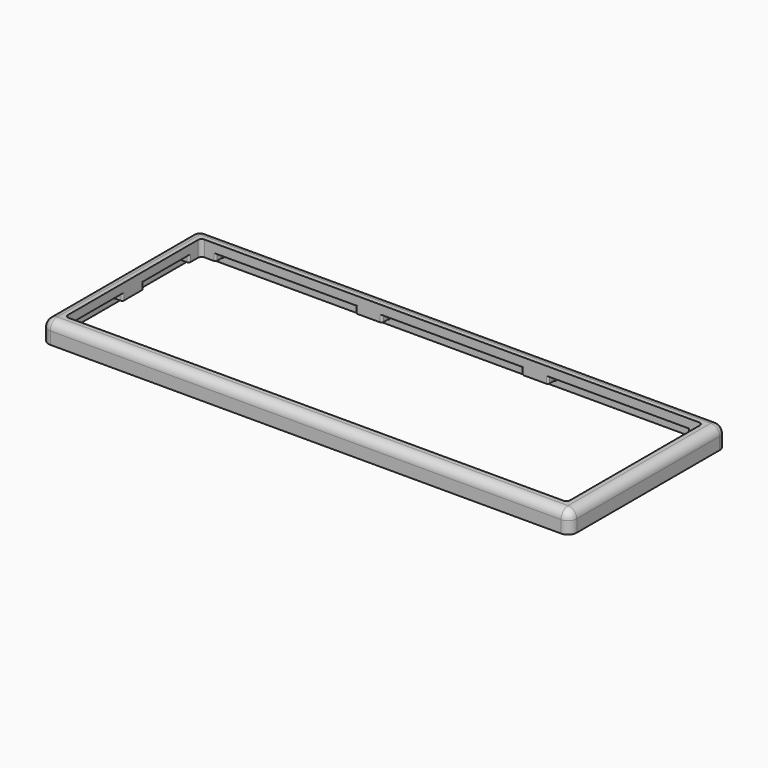
from build123d import *

# Parameters (mm, degrees)
SKETCH_W        = 302
SKETCH_H        = 112
SKETCH_W_2      = 287
SKETCH_H_2      = 97
PAD_DEPTH       = 12
FILLET_R        = 5
FILLET001_R     = 5
FILLET002_R     = 5
FILLET003_R     = 5
FILLET004_R     = 5
SKETCH001_W     = 297
SKETCH001_H     = 107
POCKET_DEPTH    = 3
FILLET005_R     = 3
FILLET006_R     = 2
FILLET007_R     = 3
FILLET008_R     = 2
FILLET009_R     = 2
FILLET010_R     = 3
FILLET011_R     = 2
FILLET012_R     = 3
SKETCH002_W     = 80
SKETCH002_H     = 5
POCKET001_DEPTH = 4
SKETCH003_W     = 5
SKETCH003_H     = 32.5
POCKET002_DEPTH = 4
FILLET013_R     = 1
FILLET014_R     = 1
FILLET015_R     = 1
FILLET016_R     = 1
FILLET017_R     = 1
FILLET018_R     = 1
FILLET019_R     = 1
FILLET020_R     = 1
FILLET021_R     = 1
FILLET022_R     = 1
FILLET023_R     = 1
FILLET024_R     = 1
FILLET025_R     = 1
FILLET026_R     = 1
FILLET027_R     = 1
FILLET028_R     = 1
FILLET029_R     = 1
FILLET030_R     = 1
FILLET031_R     = 1
FILLET032_R     = 1
FILLET033_R     = 1
FILLET034_R     = 1
FILLET035_R     = 1
FILLET036_R     = 1
FILLET037_R     = 1
FILLET038_R     = 1
FILLET039_R     = 1
FILLET040_R     = 1
FILLET041_R     = 1
FILLET042_R     = 1
FILLET043_R     = 1
FILLET044_R     = 1
FILLET045_R     = 1
FILLET046_R     = 1
FILLET047_R     = 1
FILLET048_R     = 1
FILLET049_R     = 1
FILLET050_R     = 1
FILLET051_R     = 1
FILLET052_R     = 1


with BuildPart() as part:
    # Sketch → Pad (new body)
    with BuildSketch(Plane.XY):
        Rectangle(SKETCH_W, SKETCH_H)
        Rectangle(SKETCH_W_2, SKETCH_H_2, mode=Mode.SUBTRACT)
    extrude(amount=PAD_DEPTH)

    # Fillet
    fillet_edges = [part.edges().sort_by_distance(p)[0] for p in [
        (151, -56, 6),
    ]]
    fillet(fillet_edges, radius=FILLET_R)

    # Fillet001
    fillet001_edges = [part.edges().sort_by_distance(p)[0] for p in [
        (151, 56, 6),
    ]]
    fillet(fillet001_edges, radius=FILLET001_R)

    # Fillet002
    fillet002_edges = [part.edges().sort_by_distance(p)[0] for p in [
        (-151, 56, 6),
    ]]
    fillet(fillet002_edges, radius=FILLET002_R)

    # Fillet003
    fillet003_edges = [part.edges().sort_by_distance(p)[0] for p in [
        (-151, -56, 6),
    ]]
    fillet(fillet003_edges, radius=FILLET003_R)

    # Fillet004
    fillet004_edges = [part.edges().sort_by_distance(p)[0] for p in [
        (149.535534, -54.535534, 12),
    ]]
    fillet(fillet004_edges, radius=FILLET004_R)

    # Sketch001 (on Face4 of Fillet004) → Pocket (cut)
    with BuildSketch(Plane(origin=(0, 0, 0), x_dir=(1, 0, 0), z_dir=(0, 0, -1))):
        Rectangle(SKETCH001_W, SKETCH001_H)
    extrude(amount=-POCKET_DEPTH, mode=Mode.SUBTRACT)

    # Fillet005
    fillet005_edges = [part.edges().sort_by_distance(p)[0] for p in [
        (148.5, -53.5, 1.5),
    ]]
    fillet(fillet005_edges, radius=FILLET005_R)

    # Fillet006
    fillet006_edges = [part.edges().sort_by_distance(p)[0] for p in [
        (143.5, -48.5, 7.5),
    ]]
    fillet(fillet006_edges, radius=FILLET006_R)

    # Fillet007
    fillet007_edges = [part.edges().sort_by_distance(p)[0] for p in [
        (148.5, 53.5, 1.5),
    ]]
    fillet(fillet007_edges, radius=FILLET007_R)

    # Fillet008
    fillet008_edges = [part.edges().sort_by_distance(p)[0] for p in [
        (143.5, 48.5, 7.5),
    ]]
    fillet(fillet008_edges, radius=FILLET008_R)

    # Fillet009
    fillet009_edges = [part.edges().sort_by_distance(p)[0] for p in [
        (-143.5, 48.5, 7.5),
    ]]
    fillet(fillet009_edges, radius=FILLET009_R)

    # Fillet010
    fillet010_edges = [part.edges().sort_by_distance(p)[0] for p in [
        (-148.5, 53.5, 1.5),
    ]]
    fillet(fillet010_edges, radius=FILLET010_R)

    # Fillet011
    fillet011_edges = [part.edges().sort_by_distance(p)[0] for p in [
        (-143.5, -48.5, 7.5),
    ]]
    fillet(fillet011_edges, radius=FILLET011_R)

    # Fillet012
    fillet012_edges = [part.edges().sort_by_distance(p)[0] for p in [
        (-148.5, -53.5, 1.5),
    ]]
    fillet(fillet012_edges, radius=FILLET012_R)

    # Sketch002 (on Face1 of Fillet012) → Pocket001 (cut)
    with BuildSketch(Plane(origin=(0, 0, 3), x_dir=(1, 0, 0), z_dir=(0, 0, -1))):
        with Locations((-95, 51)):
            Rectangle(SKETCH002_W, SKETCH002_H)
        with Locations((0, 51)):
            Rectangle(SKETCH002_W, SKETCH002_H)
        with Locations((95, 51)):
            Rectangle(SKETCH002_W, SKETCH002_H)
        with Locations((95, -51)):
            Rectangle(SKETCH002_W, SKETCH002_H)
        with Locations((0, -51)):
            Rectangle(SKETCH002_W, SKETCH002_H)
        with Locations((-95, -51)):
            Rectangle(SKETCH002_W, SKETCH002_H)
    extrude(amount=-POCKET001_DEPTH, mode=Mode.SUBTRACT)

    # Sketch003 (on Face1 of Pocket001) → Pocket002 (cut)
    with BuildSketch(Plane(origin=(0, 0, 3), x_dir=(1, 0, 0), z_dir=(0, 0, -1))):
        with Locations((-146, 23.75)):
            Rectangle(SKETCH003_W, SKETCH003_H)
        with Locations((-146, -23.75)):
            Rectangle(SKETCH003_W, SKETCH003_H)
        with Locations((146, 23.75)):
            Rectangle(SKETCH003_W, SKETCH003_H)
        with Locations((146, -23.75)):
            Rectangle(SKETCH003_W, SKETCH003_H)
    extrude(amount=-POCKET002_DEPTH, mode=Mode.SUBTRACT)

    # Fillet013
    fillet013_edges = [part.edges().sort_by_distance(p)[0] for p in [
        (-143.5, -40, 5),
    ]]
    fillet(fillet013_edges, radius=FILLET013_R)

    # Fillet014
    fillet014_edges = [part.edges().sort_by_distance(p)[0] for p in [
        (-135, -48.5, 5),
    ]]
    fillet(fillet014_edges, radius=FILLET014_R)

    # Fillet015
    fillet015_edges = [part.edges().sort_by_distance(p)[0] for p in [
        (-135, -53.5, 5),
    ]]
    fillet(fillet015_edges, radius=FILLET015_R)

    # Fillet016
    fillet016_edges = [part.edges().sort_by_distance(p)[0] for p in [
        (-148.5, -40, 5),
    ]]
    fillet(fillet016_edges, radius=FILLET016_R)

    # Fillet017
    fillet017_edges = [part.edges().sort_by_distance(p)[0] for p in [
        (-148.5, 7.5, 5),
    ]]
    fillet(fillet017_edges, radius=FILLET017_R)

    # Fillet018
    fillet018_edges = [part.edges().sort_by_distance(p)[0] for p in [
        (-143.5, 7.5, 5),
    ]]
    fillet(fillet018_edges, radius=FILLET018_R)

    # Fillet019
    fillet019_edges = [part.edges().sort_by_distance(p)[0] for p in [
        (-148.5, -7.5, 5),
    ]]
    fillet(fillet019_edges, radius=FILLET019_R)

    # Fillet020
    fillet020_edges = [part.edges().sort_by_distance(p)[0] for p in [
        (-143.5, -7.5, 5),
    ]]
    fillet(fillet020_edges, radius=FILLET020_R)

    # Fillet021
    fillet021_edges = [part.edges().sort_by_distance(p)[0] for p in [
        (-148.5, 40, 5),
    ]]
    fillet(fillet021_edges, radius=FILLET021_R)

    # Fillet022
    fillet022_edges = [part.edges().sort_by_distance(p)[0] for p in [
        (-143.5, 40, 5),
    ]]
    fillet(fillet022_edges, radius=FILLET022_R)

    # Fillet023
    fillet023_edges = [part.edges().sort_by_distance(p)[0] for p in [
        (-135, 53.5, 5),
    ]]
    fillet(fillet023_edges, radius=FILLET023_R)

    # Fillet024
    fillet024_edges = [part.edges().sort_by_distance(p)[0] for p in [
        (-135, 48.5, 5),
    ]]
    fillet(fillet024_edges, radius=FILLET024_R)

    # Fillet025
    fillet025_edges = [part.edges().sort_by_distance(p)[0] for p in [
        (-40, 48.5, 5),
    ]]
    fillet(fillet025_edges, radius=FILLET025_R)

    # Fillet026
    fillet026_edges = [part.edges().sort_by_distance(p)[0] for p in [
        (-40, 53.5, 5),
    ]]
    fillet(fillet026_edges, radius=FILLET026_R)

    # Fillet027
    fillet027_edges = [part.edges().sort_by_distance(p)[0] for p in [
        (-55, 48.5, 5),
    ]]
    fillet(fillet027_edges, radius=FILLET027_R)

    # Fillet028
    fillet028_edges = [part.edges().sort_by_distance(p)[0] for p in [
        (-55, 53.5, 5),
    ]]
    fillet(fillet028_edges, radius=FILLET028_R)

    # Fillet029
    fillet029_edges = [part.edges().sort_by_distance(p)[0] for p in [
        (40, 53.5, 5),
    ]]
    fillet(fillet029_edges, radius=FILLET029_R)

    # Fillet030
    fillet030_edges = [part.edges().sort_by_distance(p)[0] for p in [
        (40, 48.5, 5),
    ]]
    fillet(fillet030_edges, radius=FILLET030_R)

    # Fillet031
    fillet031_edges = [part.edges().sort_by_distance(p)[0] for p in [
        (55, 48.5, 5),
    ]]
    fillet(fillet031_edges, radius=FILLET031_R)

    # Fillet032
    fillet032_edges = [part.edges().sort_by_distance(p)[0] for p in [
        (55, 53.5, 5),
    ]]
    fillet(fillet032_edges, radius=FILLET032_R)

    # Fillet033
    fillet033_edges = [part.edges().sort_by_distance(p)[0] for p in [
        (143.5, 40, 5),
    ]]
    fillet(fillet033_edges, radius=FILLET033_R)

    # Fillet034
    fillet034_edges = [part.edges().sort_by_distance(p)[0] for p in [
        (135, 48.5, 5),
    ]]
    fillet(fillet034_edges, radius=FILLET034_R)

    # Fillet035
    fillet035_edges = [part.edges().sort_by_distance(p)[0] for p in [
        (135, 53.5, 5),
    ]]
    fillet(fillet035_edges, radius=FILLET035_R)

    # Fillet036
    fillet036_edges = [part.edges().sort_by_distance(p)[0] for p in [
        (148.5, 40, 5),
    ]]
    fillet(fillet036_edges, radius=FILLET036_R)

    # Fillet037
    fillet037_edges = [part.edges().sort_by_distance(p)[0] for p in [
        (143.5, -7.5, 5),
    ]]
    fillet(fillet037_edges, radius=FILLET037_R)

    # Fillet038
    fillet038_edges = [part.edges().sort_by_distance(p)[0] for p in [
        (148.5, -7.5, 5),
    ]]
    fillet(fillet038_edges, radius=FILLET038_R)

    # Fillet039
    fillet039_edges = [part.edges().sort_by_distance(p)[0] for p in [
        (143.5, -40, 5),
    ]]
    fillet(fillet039_edges, radius=FILLET039_R)

    # Fillet040
    fillet040_edges = [part.edges().sort_by_distance(p)[0] for p in [
        (143.5, 7.5, 5),
    ]]
    fillet(fillet040_edges, radius=FILLET040_R)

    # Fillet041
    fillet041_edges = [part.edges().sort_by_distance(p)[0] for p in [
        (148.5, 7.5, 5),
    ]]
    fillet(fillet041_edges, radius=FILLET041_R)

    # Fillet042
    fillet042_edges = [part.edges().sort_by_distance(p)[0] for p in [
        (148.5, -40, 5),
    ]]
    fillet(fillet042_edges, radius=FILLET042_R)

    # Fillet043
    fillet043_edges = [part.edges().sort_by_distance(p)[0] for p in [
        (135, -48.5, 5),
    ]]
    fillet(fillet043_edges, radius=FILLET043_R)

    # Fillet044
    fillet044_edges = [part.edges().sort_by_distance(p)[0] for p in [
        (135, -53.5, 5),
    ]]
    fillet(fillet044_edges, radius=FILLET044_R)

    # Fillet045
    fillet045_edges = [part.edges().sort_by_distance(p)[0] for p in [
        (40, -53.5, 5),
    ]]
    fillet(fillet045_edges, radius=FILLET045_R)

    # Fillet046
    fillet046_edges = [part.edges().sort_by_distance(p)[0] for p in [
        (40, -48.5, 5),
    ]]
    fillet(fillet046_edges, radius=FILLET046_R)

    # Fillet047
    fillet047_edges = [part.edges().sort_by_distance(p)[0] for p in [
        (55, -48.5, 5),
    ]]
    fillet(fillet047_edges, radius=FILLET047_R)

    # Fillet048
    fillet048_edges = [part.edges().sort_by_distance(p)[0] for p in [
        (55, -53.5, 5),
    ]]
    fillet(fillet048_edges, radius=FILLET048_R)

    # Fillet049
    fillet049_edges = [part.edges().sort_by_distance(p)[0] for p in [
        (-40, -53.5, 5),
    ]]
    fillet(fillet049_edges, radius=FILLET049_R)

    # Fillet050
    fillet050_edges = [part.edges().sort_by_distance(p)[0] for p in [
        (-40, -48.5, 5),
    ]]
    fillet(fillet050_edges, radius=FILLET050_R)

    # Fillet051
    fillet051_edges = [part.edges().sort_by_distance(p)[0] for p in [
        (-55, -48.5, 5),
    ]]
    fillet(fillet051_edges, radius=FILLET051_R)

    # Fillet052
    fillet052_edges = [part.edges().sort_by_distance(p)[0] for p in [
        (-55, -53.5, 5),
    ]]
    fillet(fillet052_edges, radius=FILLET052_R)


solid = part.part
